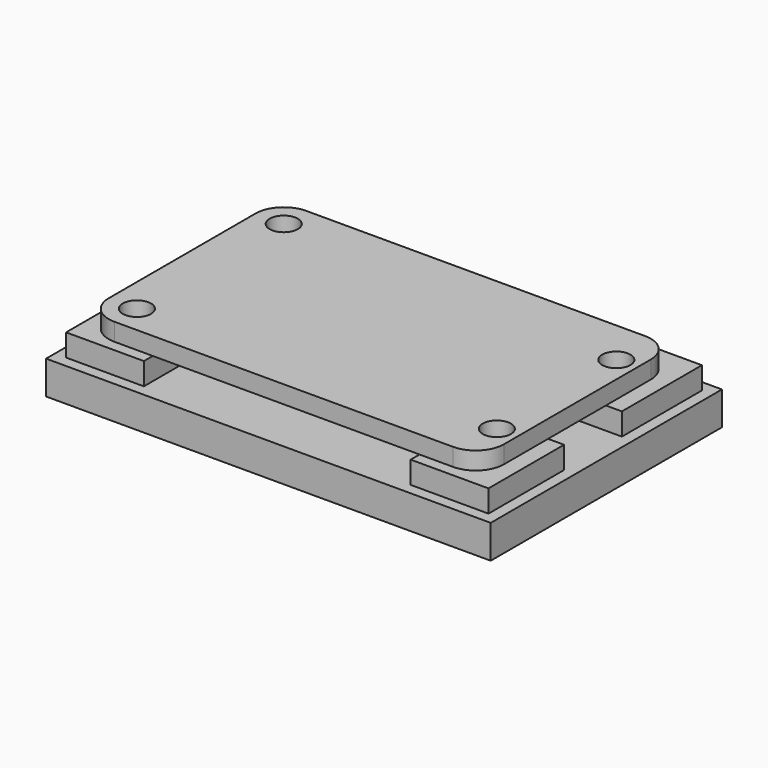
from build123d import *

# Parameters (mm, degrees)
CYLINDER001_R     = 1.27
CYLINDER001_DEPTH = 1.6
CYLINDER003_R     = 1.27
CYLINDER003_DEPTH = 1.6
CYLINDER002_R     = 1.27
CYLINDER002_DEPTH = 1.6
CYLINDER_R        = 1.27
CYLINDER_DEPTH    = 1.6
BOX_W             = 35.56
BOX_H             = 21.59
BOX_DEPTH         = 1.5875
FILLET_R          = 2.54
CYLINDER009_R     = 3.25
CYLINDER009_DEPTH = 3
CYLINDER010_R     = 3.25
CYLINDER010_DEPTH = 3
CYLINDER011_R     = 3.25
CYLINDER011_DEPTH = 3
CYLINDER008_R     = 3.25
CYLINDER008_DEPTH = 3
CYLINDER004_R     = 1.5
CYLINDER004_DEPTH = 5
CYLINDER006_R     = 1.5
CYLINDER006_DEPTH = 5
CYLINDER007_R     = 1.5
CYLINDER007_DEPTH = 5
CYLINDER005_R     = 1.5
CYLINDER005_DEPTH = 5
BOX003_W          = 7
BOX003_H          = 9
BOX003_DEPTH      = 2
BOX004_W          = 7
BOX004_H          = 8.5
BOX004_DEPTH      = 2
BOX002_W          = 7
BOX002_H          = 24
BOX002_DEPTH      = 2
BOX001_W          = 40
BOX001_H          = 26
BOX001_DEPTH      = 3


with BuildPart() as cylinder001:
    # Cylinder001 → Cylinder001 (new body)
    with BuildSketch(Plane(origin=(2.54, 19.05, 0), x_dir=(1, 0, 0), z_dir=(0, 0, 1))):
        Circle(CYLINDER001_R)
    extrude(amount=CYLINDER001_DEPTH)


with BuildPart() as cylinder003:
    # Cylinder003 → Cylinder003 (new body)
    with BuildSketch(Plane(origin=(33.7, 17.5, 0), x_dir=(1, 0, 0), z_dir=(0, 0, 1))):
        Circle(CYLINDER003_R)
    extrude(amount=CYLINDER003_DEPTH)


with BuildPart() as cylinder002:
    # Cylinder002 → Cylinder002 (new body)
    with BuildSketch(Plane(origin=(33.7, 4.064, 0), x_dir=(1, 0, 0), z_dir=(0, 0, 1))):
        Circle(CYLINDER002_R)
    extrude(amount=CYLINDER002_DEPTH)


with BuildPart() as mounting_holes:
    # Cylinder → Cylinder (new body)
    with BuildSketch(Plane(origin=(2.54, 2.54, 0), x_dir=(1, 0, 0), z_dir=(0, 0, 1))):
        Circle(CYLINDER_R)
    extrude(amount=CYLINDER_DEPTH)

    # Fusion: union Cylinder001, Cylinder003, Cylinder002
    add(cylinder001.part)
    add(cylinder003.part)
    add(cylinder002.part)


with BuildPart() as regulator_object:
    # Box → Box (new body)
    with BuildSketch(Plane.XY):
        with Locations((17.78, 10.795)):
            Rectangle(BOX_W, BOX_H)
    extrude(amount=BOX_DEPTH)

    # Fillet
    fillet_edges = [regulator_object.edges().sort_by_distance(p)[0] for p in [
        (0, 0, 0.79375),
        (0, 21.59, 0.79375),
        (35.56, 0, 0.79375),
        (35.56, 21.59, 0.79375),
    ]]
    fillet(fillet_edges, radius=FILLET_R)

    # Cut: cut Mounting Holes
    add(mounting_holes.part, mode=Mode.SUBTRACT)


with BuildPart() as regulator_object_1:
    # Cut placement: moved
    add(regulator_object.part.moved(Location((1, 1, 5))))


with BuildPart() as cylinder009:
    # Cylinder009 → Cylinder009 (new body)
    with BuildSketch(Plane(origin=(3.54, 3.54, 0), x_dir=(1, 0, 0), z_dir=(0, 0, 1))):
        Circle(CYLINDER009_R)
    extrude(amount=CYLINDER009_DEPTH)


with BuildPart() as cylinder010:
    # Cylinder010 → Cylinder010 (new body)
    with BuildSketch(Plane(origin=(34.7, 18.5, 0), x_dir=(1, 0, 0), z_dir=(0, 0, 1))):
        Circle(CYLINDER010_R)
    extrude(amount=CYLINDER010_DEPTH)


with BuildPart() as cylinder011:
    # Cylinder011 → Cylinder011 (new body)
    with BuildSketch(Plane(origin=(34.7, 5.06, 0), x_dir=(1, 0, 0), z_dir=(0, 0, 1))):
        Circle(CYLINDER011_R)
    extrude(amount=CYLINDER011_DEPTH)


with BuildPart() as washer_bolt_holes:
    # Cylinder008 → Cylinder008 (new body)
    with BuildSketch(Plane(origin=(3.54, 20.05, 0), x_dir=(1, 0, 0), z_dir=(0, 0, 1))):
        Circle(CYLINDER008_R)
    extrude(amount=CYLINDER008_DEPTH)

    # Fusion003: union Cylinder009, Cylinder010, Cylinder011
    add(cylinder009.part)
    add(cylinder010.part)
    add(cylinder011.part)


with BuildPart() as cylinder004:
    # Cylinder004 → Cylinder004 (new body)
    with BuildSketch(Plane(origin=(2.54, 19.05, 0), x_dir=(1, 0, 0), z_dir=(0, 0, 1))):
        Circle(CYLINDER004_R)
    extrude(amount=CYLINDER004_DEPTH)


with BuildPart() as cylinder006:
    # Cylinder006 → Cylinder006 (new body)
    with BuildSketch(Plane(origin=(33.7, 17.5, 0), x_dir=(1, 0, 0), z_dir=(0, 0, 1))):
        Circle(CYLINDER006_R)
    extrude(amount=CYLINDER006_DEPTH)


with BuildPart() as cylinder007:
    # Cylinder007 → Cylinder007 (new body)
    with BuildSketch(Plane(origin=(33.7, 4.064, 0), x_dir=(1, 0, 0), z_dir=(0, 0, 1))):
        Circle(CYLINDER007_R)
    extrude(amount=CYLINDER007_DEPTH)


with BuildPart() as complete_blackplate_holes:
    # Cylinder005 → Cylinder005 (new body)
    with BuildSketch(Plane(origin=(2.54, 2.54, 0), x_dir=(1, 0, 0), z_dir=(0, 0, 1))):
        Circle(CYLINDER005_R)
    extrude(amount=CYLINDER005_DEPTH)

    # Fusion001: union Cylinder004, Cylinder006, Cylinder007
    add(cylinder004.part)
    add(cylinder006.part)
    add(cylinder007.part)


with BuildPart() as complete_blackplate_holes_1:
    # Fusion001 placement: moved
    add(complete_blackplate_holes.part.moved(Location((1, 1, 0))))

    # Fusion004: union Washer Bolt Holes
    add(washer_bolt_holes.part)


with BuildPart() as cube003:
    # Box003 → Box003 (new body)
    with BuildSketch(Plane(origin=(31, 15, 3), x_dir=(1, 0, 0), z_dir=(0, 0, 1))):
        with Locations((3.5, 4.5)):
            Rectangle(BOX003_W, BOX003_H)
    extrude(amount=BOX003_DEPTH)


with BuildPart() as cube004:
    # Box004 → Box004 (new body)
    with BuildSketch(Plane(origin=(31, 0, 3), x_dir=(1, 0, 0), z_dir=(0, 0, 1))):
        with Locations((3.5, 4.25)):
            Rectangle(BOX004_W, BOX004_H)
    extrude(amount=BOX004_DEPTH)


with BuildPart() as standoff_blocks:
    # Box002 → Box002 (new body)
    with BuildSketch(Plane.XY.offset(3)):
        with Locations((3.5, 12)):
            Rectangle(BOX002_W, BOX002_H)
    extrude(amount=BOX002_DEPTH)

    # Fusion002: union Cube003, Cube004
    add(cube003.part)
    add(cube004.part)


with BuildPart() as regulator_base:
    # Box001 → Box001 (new body)
    with BuildSketch(Plane(origin=(-1, -1, 0), x_dir=(1, 0, 0), z_dir=(0, 0, 1))):
        with Locations((20, 13)):
            Rectangle(BOX001_W, BOX001_H)
    extrude(amount=BOX001_DEPTH)

    # Fusion005: union Standoff Blocks
    add(standoff_blocks.part)

    # Cut001: cut Complete Blackplate Holes
    add(complete_blackplate_holes_1.part, mode=Mode.SUBTRACT)


solid = Compound([regulator_object_1.part, regulator_base.part])
